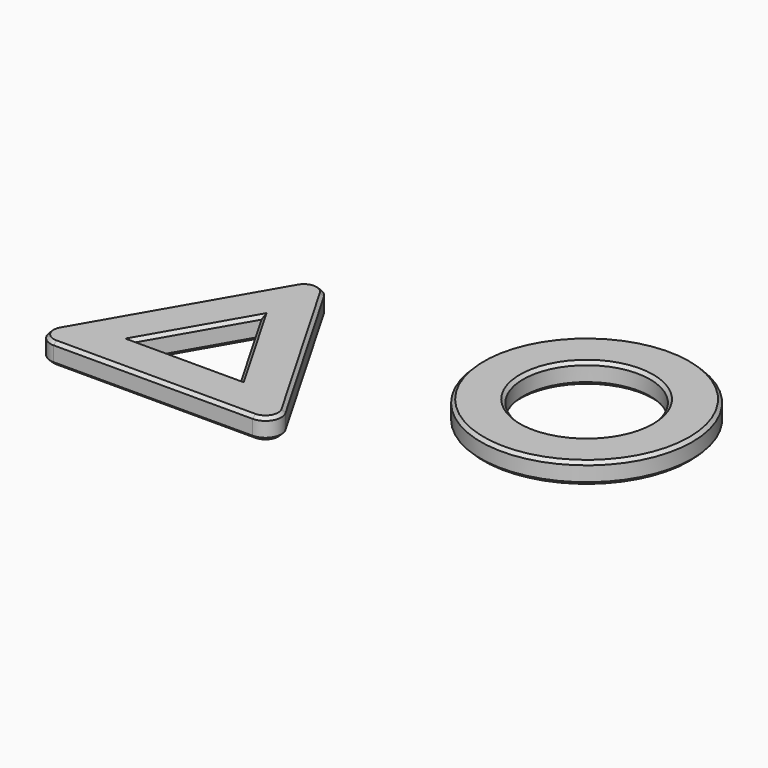
from build123d import *

# Parameters (mm, degrees)
F1_DEPTH = 4
F3_DEPTH = 25
F4_R     = 3
F5_SIZE  = 0.6
F6_R     = 20
F6_R_2   = 12
F7_DEPTH = 4
F8_SIZE  = 0.6


with BuildPart() as f1:
    # F0 (on Top) → F1 (new body)
    with BuildSketch(Plane.XY):
        Polygon((-24, 0), (0, 0), (24, 0), (0, 41.5692193817), align=None)
    extrude(amount=F1_DEPTH)

    # F2 (on face) → F3 (cut)
    with BuildSketch(Plane.XY.offset(4)):
        Polygon((0, 25.5692193817), (-10.1435935394, 8), (10.1435935394, 8), align=None)
    extrude(amount=-F3_DEPTH, mode=Mode.SUBTRACT)

    # F4
    f4_edges = [f1.edges().sort_by_distance(p)[0] for p in [
        (-24, 0, 2),
        (24, 0, 2),
        (0, 41.569219, 2),
    ]]
    fillet(f4_edges, radius=F4_R)

    # F5
    f5_edges = [f1.edges().sort_by_distance(p)[0] for p in [
        (0, 0, 4),
        (21.401924, 1.5, 4),
        (-21.401924, 1.5, 4),
        (12, 20.78461, 4),
        (-12, 20.78461, 4),
        (0, 38.569219, 4),
        (5.071797, 16.78461, 4),
        (-5.071797, 16.78461, 4),
        (0, 8, 4),
        (0, 0, 0),
        (-21.401924, 1.5, 0),
        (21.401924, 1.5, 0),
        (-12, 20.78461, 0),
        (12, 20.78461, 0),
        (0, 38.569219, 0),
        (5.071797, 16.78461, 0),
        (-5.071797, 16.78461, 0),
        (0, 8, 0),
    ]]
    chamfer(f5_edges, length=F5_SIZE)


with BuildPart() as f7:
    # F6 (on Top) → F7 (new body)
    with BuildSketch(Plane.XY):
        with Locations((54.0622398257, 34.7873009741)):
            Circle(F6_R)
        with Locations((54.0622398257, 34.7873009741)):
            Circle(F6_R_2, mode=Mode.SUBTRACT)
    extrude(amount=F7_DEPTH)

    # F8
    f8_edges = [f7.edges().sort_by_distance(p)[0] for p in [
        (34.06224, 34.787301, 4),
        (42.06224, 34.787301, 4),
        (34.06224, 34.787301, 0),
        (42.06224, 34.787301, 0),
    ]]
    chamfer(f8_edges, length=F8_SIZE)


solid = Compound([f1.part, f7.part])
